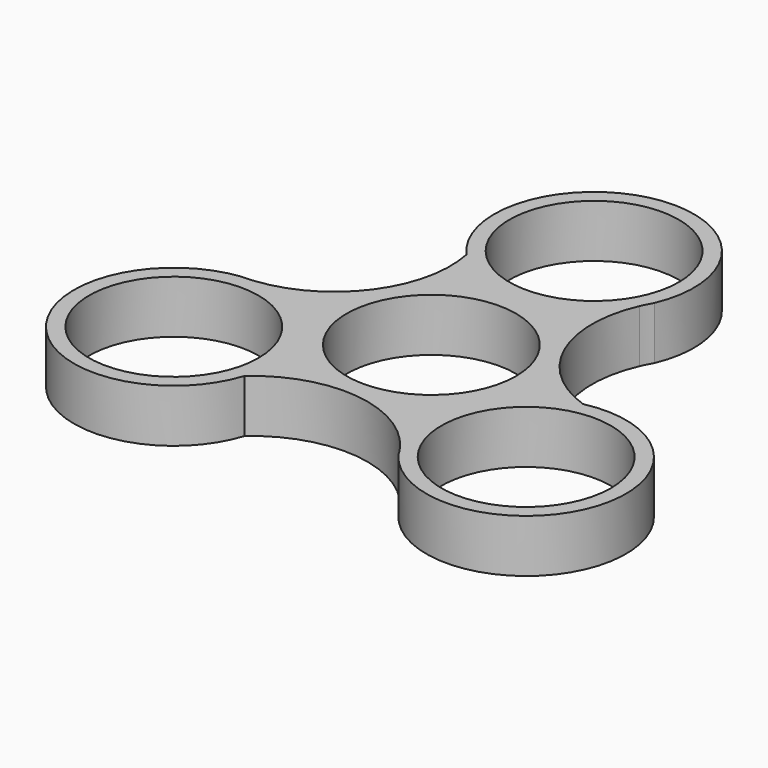
from build123d import *

# Parameters (mm, degrees)
F0_R     = 11.2
F1_DEPTH = 7


with BuildPart() as f1:
    # F0 (on Top) → F1 (new body)
    with BuildSketch(Plane.XY):
        with BuildLine():
            ThreePointArc((20.505007, -0.549307), (11.361784, 7.79708), (11.358857, 20.17693))
            ThreePointArc((11.358857, 20.17693), (11.721684, 20.942218), (12.126193, 21.686316))
            ThreePointArc((12.126193, 21.686316), (-2.17198, 39.921322), (-9.776789, 18.03251))
            ThreePointArc((-9.776789, 18.03251), (-12.433361, 5.941054), (-23.153162, -0.251406))
            ThreePointArc((-23.153162, -0.251406), (-23.997335, -0.319833), (-24.843997, -0.341567))
            ThreePointArc((-24.843997, -0.341567), (-33.486889, -21.841651), (-10.728217, -17.483203))
            ThreePointArc((-10.728217, -17.483203), (1.071577, -13.738133), (11.794305, -19.925523))
            ThreePointArc((11.794305, -19.925523), (12.275651, -20.622385), (12.717804, -21.344749))
            ThreePointArc((12.717804, -21.344749), (35.658869, -18.079671), (20.505007, -0.549307))
        make_face()
        with Locations((-23.297158, -13.450621)):
            Circle(F0_R, mode=Mode.SUBTRACT)
        with Locations((23.297158, -13.450621)):
            Circle(F0_R, mode=Mode.SUBTRACT)
        Circle(F0_R, mode=Mode.SUBTRACT)
        with Locations((0, 26.901241)):
            Circle(F0_R, mode=Mode.SUBTRACT)
    extrude(amount=F1_DEPTH)


solid = f1.part
